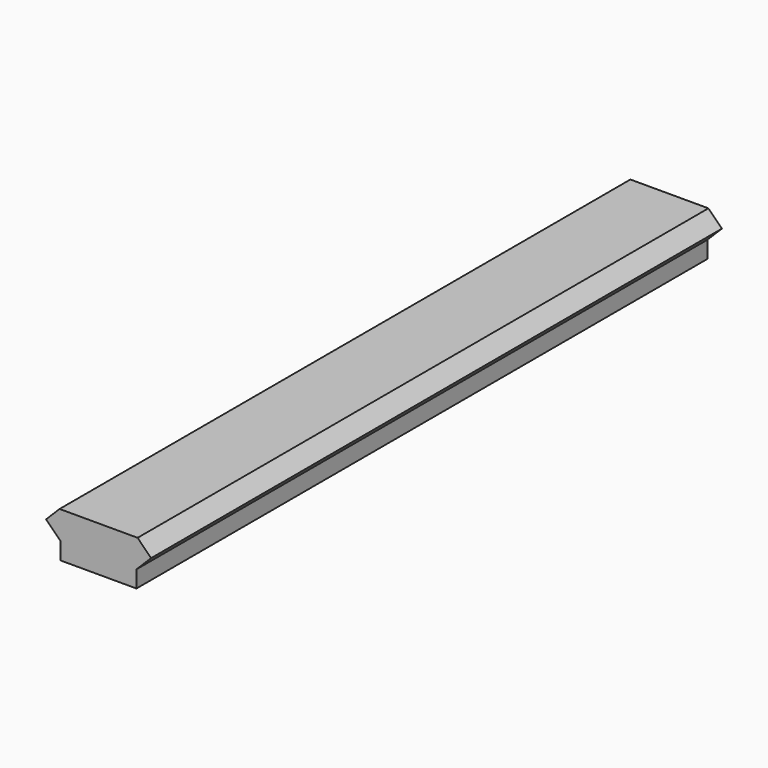
from build123d import *

# Parameters (mm, degrees)
F0_W     = 9.4996
F0_H     = 2.7432
F1_DEPTH = 147.701


with BuildPart() as f1:
    # F0 (on Front) → F1 (new body)
    with BuildSketch(Plane.XZ):
        Polygon((9.4996, -1.3716), (0, -1.3716), (0, -6.5278), (7.8359, -6.5278), (7.8359, -3.0353), align=None)
        Polygon((0, -1.3716), (-9.4996, -1.3716), (-7.8359, -3.0353), (-7.8359, -6.5278), (0, -6.5278), align=None)
        with Locations((4.7498, 0)):
            Rectangle(F0_W, F0_H)
        Polygon((9.4996, 1.3716), (9.4996, -1.3716), (10.8712, 0), align=None)
        Polygon((0, 2.794), (0, 1.3716), (9.4996, 1.3716), (8.0772, 2.794), align=None)
        Polygon((-8.0772, 2.794), (-9.4996, 1.3716), (0, 1.3716), (0, 2.794), align=None)
        with Locations((-4.7498, 0)):
            Rectangle(F0_W, F0_H)
        Polygon((-10.8712, 0), (-9.4996, -1.3716), (-9.4996, 1.3716), align=None)
    extrude(amount=F1_DEPTH)


solid = f1.part
